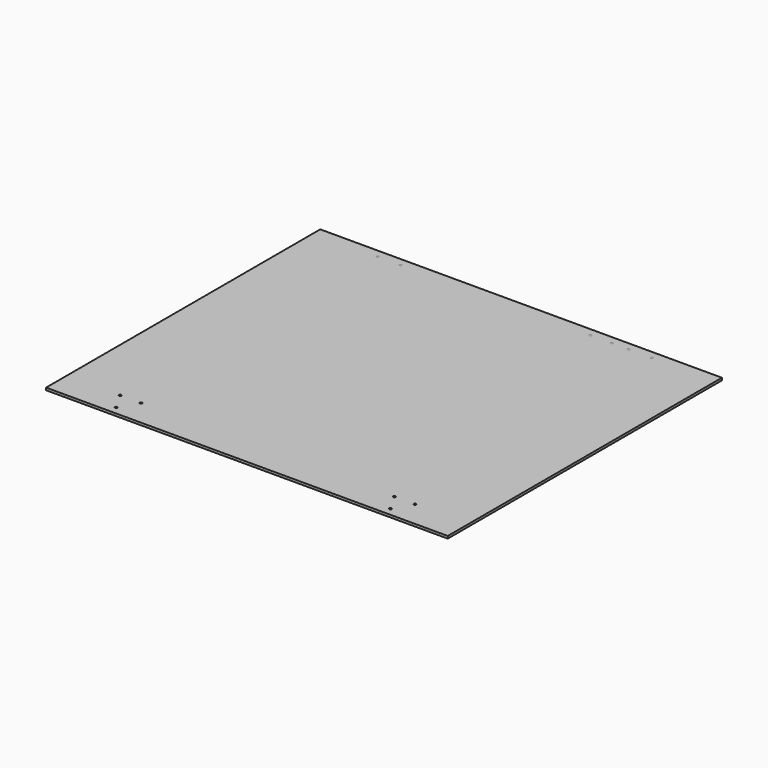
from build123d import *

# Parameters (mm, degrees)
SKETCH_W     = 394
SKETCH_H     = 179
SKETCH_R     = 5.75
SKETCH_R_2   = 12
PAD_DEPTH    = 3
PAD001_DEPTH = 3
SKETCH002_W  = 374
SKETCH002_H  = 394
PAD002_DEPTH = 3
SKETCH003_W  = 504
SKETCH003_H  = 374
PAD004_DEPTH = 3
SKETCH004_W  = 504
SKETCH004_H  = 430
SKETCH004_R  = 1.5
PAD003_DEPTH = 3


with BuildPart() as rear_top:
    # Sketch → Pad (new body)
    with BuildSketch(Plane.XY):
        with Locations((197, -89.5)):
            Rectangle(SKETCH_W, SKETCH_H)
        with Locations((15.5, -120)):
            Circle(SKETCH_R, mode=Mode.SUBTRACT)
        with Locations((378.5, -120)):
            Circle(SKETCH_R, mode=Mode.SUBTRACT)
        with Locations((46.5, -24.5)):
            Circle(SKETCH_R_2, mode=Mode.SUBTRACT)
    extrude(amount=PAD_DEPTH)


with BuildPart() as rear_bottom:
    # Sketch001 → Pad001 (new body)
    with BuildSketch(Plane.XY):
        Polygon((0, 0), (379, 0), (379, -294), (346.5, -294), (346.5, -281), (324.5, -281), (324.5, -294), (54.5, -294), (54.5, -281), (32.5, -281), (32.5, -294), (0, -294), align=None)
    extrude(amount=PAD001_DEPTH)


with BuildPart() as top:
    # Sketch002 → Pad002 (new body)
    with BuildSketch(Plane.XY):
        with Locations((187, -197)):
            Rectangle(SKETCH002_W, SKETCH002_H)
    extrude(amount=PAD002_DEPTH)


with BuildPart() as side:
    # Sketch003 → Pad004 (new body)
    with BuildSketch(Plane.XY):
        with Locations((252, -187)):
            Rectangle(SKETCH003_W, SKETCH003_H)
    extrude(amount=PAD004_DEPTH)


with BuildPart() as front:
    # Sketch004 → Pad003 (new body)
    with BuildSketch(Plane.XY):
        with Locations((252, -215)):
            Rectangle(SKETCH004_W, SKETCH004_H)
        with Locations((80, -10)):
            Circle(SKETCH004_R, mode=Mode.SUBTRACT)
        with Locations((109, -10)):
            Circle(SKETCH004_R, mode=Mode.SUBTRACT)
        with Locations((347, -10)):
            Circle(SKETCH004_R, mode=Mode.SUBTRACT)
        with Locations((374, -10)):
            Circle(SKETCH004_R, mode=Mode.SUBTRACT)
        with Locations((395, -10)):
            Circle(SKETCH004_R, mode=Mode.SUBTRACT)
        with Locations((424, -10)):
            Circle(SKETCH004_R, mode=Mode.SUBTRACT)
        with Locations((67, -397.5)):
            Circle(SKETCH004_R, mode=Mode.SUBTRACT)
        with Locations((80, -420)):
            Circle(SKETCH004_R, mode=Mode.SUBTRACT)
        with Locations((93, -397.5)):
            Circle(SKETCH004_R, mode=Mode.SUBTRACT)
        with Locations((437, -397.5)):
            Circle(SKETCH004_R, mode=Mode.SUBTRACT)
        with Locations((411, -397.5)):
            Circle(SKETCH004_R, mode=Mode.SUBTRACT)
        with Locations((424, -420)):
            Circle(SKETCH004_R, mode=Mode.SUBTRACT)
    extrude(amount=PAD003_DEPTH)


solid = Compound([rear_top.part, rear_bottom.part, top.part, side.part, front.part])
